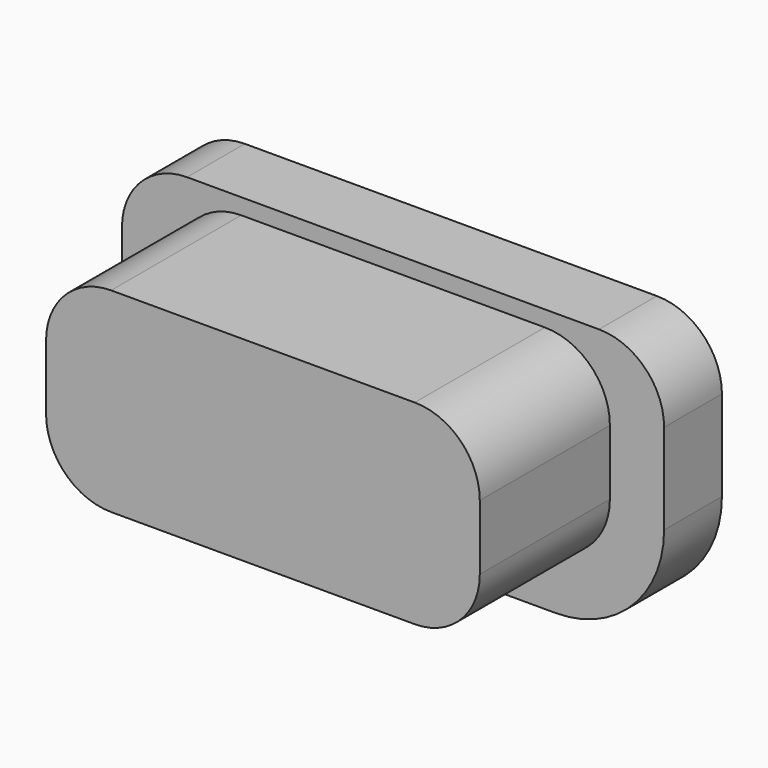
from build123d import *

# Parameters (mm, degrees)
EXTRUDE015_DEPTH = 1
EXTRUDE014_DEPTH = 2.75


with BuildPart() as extrude015:
    # Sketch015 → Extrude015 (new body)
    with BuildSketch(Plane.XZ):
        with BuildLine():
            ThreePointArc((11.7, 16.35), (11.063604, 16.086396), (10.8, 15.45))
            Line((10.8, 14.2), (10.8, 15.45))
            ThreePointArc((10.8, 14.2), (11.23934, 13.13934), (12.3, 12.7))
            Line((16.8, 12.7), (12.3, 12.7))
            ThreePointArc((16.8, 12.7), (17.86066, 13.13934), (18.3, 14.2))
            Line((18.3, 15.45), (18.3, 14.2))
            ThreePointArc((18.3, 15.45), (18.036396, 16.086396), (17.4, 16.35))
            Line((11.7, 16.35), (17.4, 16.35))
        make_face()
    extrude(amount=EXTRUDE015_DEPTH)


with BuildPart() as extrude015_1:
    # Extrude015 placement: moved
    add(extrude015.part.moved(Location((0, 2.5, 0))))


with BuildPart() as button1:
    # Sketch014 → Extrude014 (new body)
    with BuildSketch(Plane.XZ):
        with BuildLine():
            ThreePointArc((12.75, 16.23), (12.113604, 15.966396), (11.85, 15.33))
            Line((11.85, 14.43), (11.85, 15.33))
            ThreePointArc((11.85, 14.43), (12.113604, 13.793604), (12.75, 13.53))
            Line((16.95, 13.53), (12.75, 13.53))
            ThreePointArc((16.95, 13.53), (17.586396, 13.793604), (17.85, 14.43))
            Line((17.85, 15.33), (17.85, 14.43))
            ThreePointArc((17.85, 15.33), (17.586396, 15.966396), (16.95, 16.23))
            Line((12.75, 16.23), (16.95, 16.23))
        make_face()
    extrude(amount=EXTRUDE014_DEPTH)


with BuildPart() as button1_1:
    # Extrude014 placement: moved
    add(button1.part.moved(Location((-0.3, 2, -0.1))))

    # Fusion018: union Extrude015
    add(extrude015_1.part)


solid = button1_1.part
